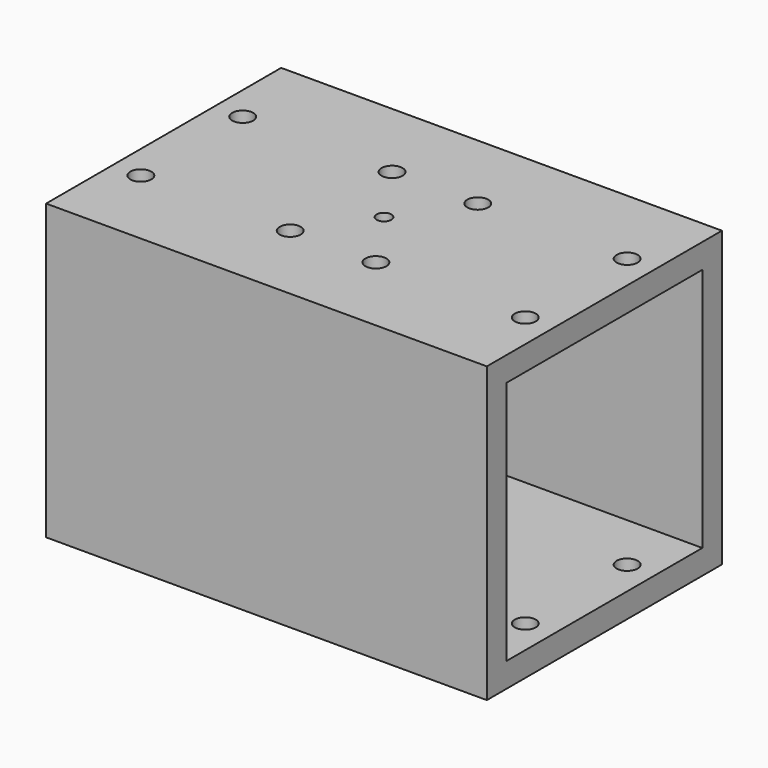
from build123d import *

# Parameters (mm, degrees)
F0_W     = 90
F0_H     = 60
F0_R     = 2.15
F1_DEPTH = 60
F2_R     = 1.5
F3_DEPTH = 60
F4_W     = 50
F4_H     = 50
F5_DEPTH = 90


with BuildPart() as f1:
    # F0 (on Top) → F1 (new body)
    with BuildSketch(Plane.XY):
        Rectangle(F0_W, F0_H)
        with Locations((-39.25, -13)):
            Circle(F0_R, mode=Mode.SUBTRACT)
        with Locations((-8.75, -13)):
            Circle(F0_R, mode=Mode.SUBTRACT)
        with Locations((8.75, -13)):
            Circle(F0_R, mode=Mode.SUBTRACT)
        with Locations((39.25, -13)):
            Circle(F0_R, mode=Mode.SUBTRACT)
        with Locations((-39.25, 13)):
            Circle(F0_R, mode=Mode.SUBTRACT)
        with Locations((-8.75, 13)):
            Circle(F0_R, mode=Mode.SUBTRACT)
        with Locations((8.75, 13)):
            Circle(F0_R, mode=Mode.SUBTRACT)
        with Locations((39.25, 13)):
            Circle(F0_R, mode=Mode.SUBTRACT)
    extrude(amount=-F1_DEPTH)

    # F2 (on face) → F3 (cut)
    with BuildSketch(Plane.XY):
        Circle(F2_R)
    extrude(amount=-F3_DEPTH, mode=Mode.SUBTRACT)

    # F4 (on face) → F5 (cut)
    with BuildSketch(Plane.YZ.offset(45)):
        with Locations((0, -30)):
            Rectangle(F4_W, F4_H)
    extrude(amount=-F5_DEPTH, mode=Mode.SUBTRACT)


solid = f1.part
